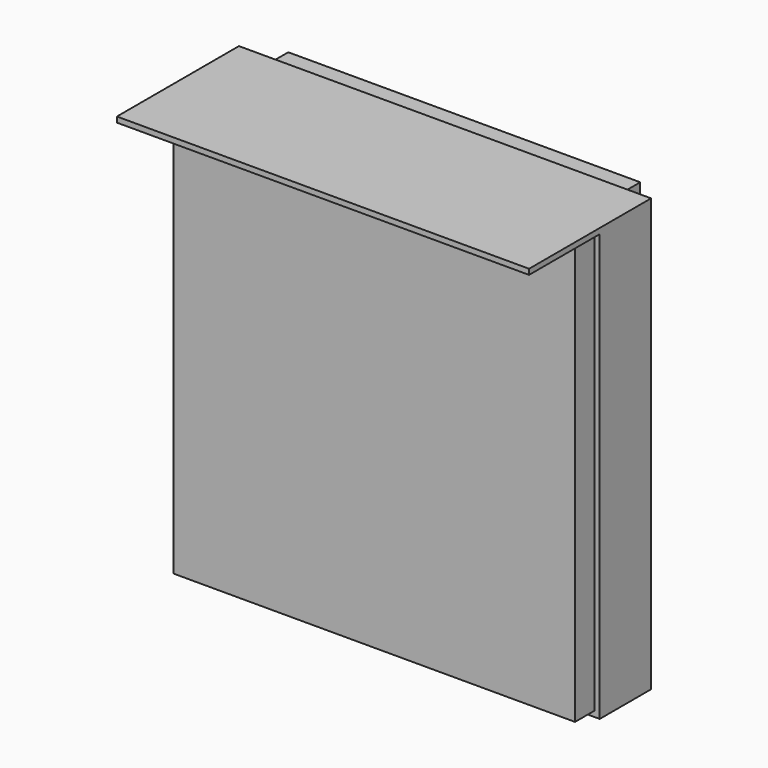
from build123d import *

# Parameters (mm, degrees)
F1_W     = 1754
F1_H     = 1977
F2_DEPTH = 120
F3_W     = 2054
F3_H     = 2154
F3_W_2   = 1754
F3_H_2   = 1977
F4_DEPTH = 320
F5_W     = 2000
F5_H     = 2100
F6_DEPTH = 120
F8_DEPTH = 440


with BuildPart() as f2:
    # F1 (on face) → F2 (new body)
    with BuildSketch(Plane.XZ):
        with Locations((0, 889.5)):
            Rectangle(F1_W, F1_H)
    extrude(amount=F2_DEPTH)

    # F3 (on face) → F4 (join)
    with BuildSketch(Plane.XZ.offset(120)):
        with Locations((0, 828)):
            Rectangle(F3_W, F3_H)
        with Locations((0, 889.5)):
            Rectangle(F3_W_2, F3_H_2, mode=Mode.SUBTRACT)
        with Locations((0, 889.5)):
            Rectangle(F3_W_2, F3_H_2)
    extrude(amount=F4_DEPTH)

    # F5 (on face) → F6 (join)
    with BuildSketch(Plane.XZ.offset(440)):
        with Locations((0, 828)):
            Rectangle(F5_W, F5_H)
    extrude(amount=F6_DEPTH)

    # F7 (on face) → F8 (join)
    with BuildSketch(Plane.XZ.offset(440)):
        Polygon((1027, 1905), (-1027, 1905), (-1027, 1878), (-1000, 1878), (1000, 1878), (1027, 1878), align=None)
    extrude(amount=F8_DEPTH)


solid = f2.part
